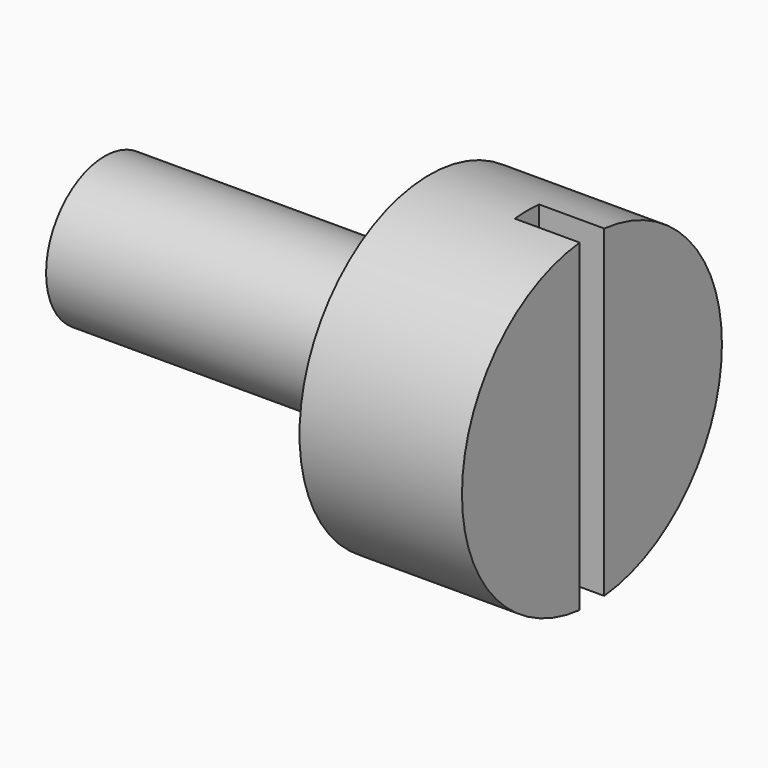
from build123d import *

# Parameters (mm, degrees)
F0_R     = 5
F1_DEPTH = 5
F2_R     = 2.25
F3_DEPTH = 10
F5_DEPTH = 2


with BuildPart() as f1:
    # F0 (on Right) → F1 (new body)
    with BuildSketch(Plane.YZ):
        Circle(F0_R)
    extrude(amount=F1_DEPTH)

    # F2 (on face) → F3 (join)
    with BuildSketch(Plane(origin=(0, 0, 0), x_dir=(0, -1, 0), z_dir=(-1, 0, 0))):
        Circle(F2_R)
    extrude(amount=F3_DEPTH)

    # F4 (on face) → F5 (cut)
    with BuildSketch(Plane.YZ.offset(5)):
        with BuildLine():
            Line((0.4713461094, 4.9777337057), (0.4713461094, 6.4907008782))
            Line((0.4713461094, 6.4907008782), (-0.4713461094, 6.4907008782))
            Line((-0.4713461094, 6.4907008782), (-0.4713461094, 4.9777337057))
            ThreePointArc((-0.4713461094, 4.9777337057), (0, 5), (0.4713461094, 4.9777337057))
        make_face()
        with BuildLine():
            Line((0.4713461094, -4.9777337057), (0.4713461094, 4.9777337057))
            ThreePointArc((0.4713461094, 4.9777337057), (0, 5), (-0.4713461094, 4.9777337057))
            Line((-0.4713461094, 4.9777337057), (-0.4713461094, -4.9777337057))
            ThreePointArc((-0.4713461094, -4.9777337057), (0, -5), (0.4713461094, -4.9777337057))
        make_face()
        with BuildLine():
            Line((0.4713461094, -6.4907008782), (0.4713461094, -4.9777337057))
            ThreePointArc((0.4713461094, -4.9777337057), (0, -5), (-0.4713461094, -4.9777337057))
            Line((-0.4713461094, -4.9777337057), (-0.4713461094, -6.4907008782))
            Line((-0.4713461094, -6.4907008782), (0.4713461094, -6.4907008782))
        make_face()
    extrude(amount=-F5_DEPTH, mode=Mode.SUBTRACT)


solid = f1.part
